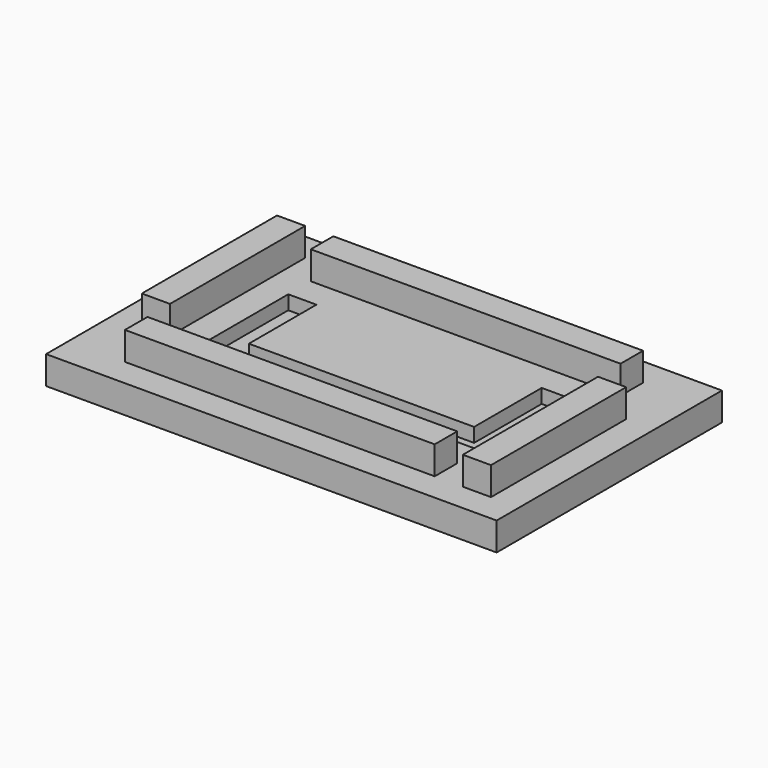
from build123d import *

# Parameters (mm, degrees)
F1_W     = 32
F1_H     = 20
F2_DEPTH = 2
F3_W     = 2
F3_H     = 12
F3_W_2   = 22
F3_H_2   = 2
F4_DEPTH = 2
F5_W     = 2
F5_H     = 6
F6_DEPTH = 1


with BuildPart() as f2:
    # F1 (on Top) → F2 (new body)
    with BuildSketch(Plane.XY):
        Rectangle(F1_W, F1_H)
    extrude(amount=F2_DEPTH)

    # F3 (on face) → F4 (join)
    with BuildSketch(Plane.XY.offset(2)):
        with Locations((-13, 2)):
            Rectangle(F3_W, F3_H)
        with Locations((1, 7)):
            Rectangle(F3_W_2, F3_H_2)
        with Locations((13, -2)):
            Rectangle(F3_W, F3_H)
        with Locations((-1, -7)):
            Rectangle(F3_W_2, F3_H_2)
    extrude(amount=F4_DEPTH)

    # F5 (on face) → F6 (cut)
    with BuildSketch(Plane.XY.offset(2)):
        with Locations((-9, 1)):
            Rectangle(F5_W, F5_H)
        Polygon((-10, -2), (-10, -4), (10, -4), (10, -2), (8, -2), (-8, -2), align=None)
        with Locations((9, 1)):
            Rectangle(F5_W, F5_H)
    extrude(amount=-F6_DEPTH, mode=Mode.SUBTRACT)


solid = f2.part
